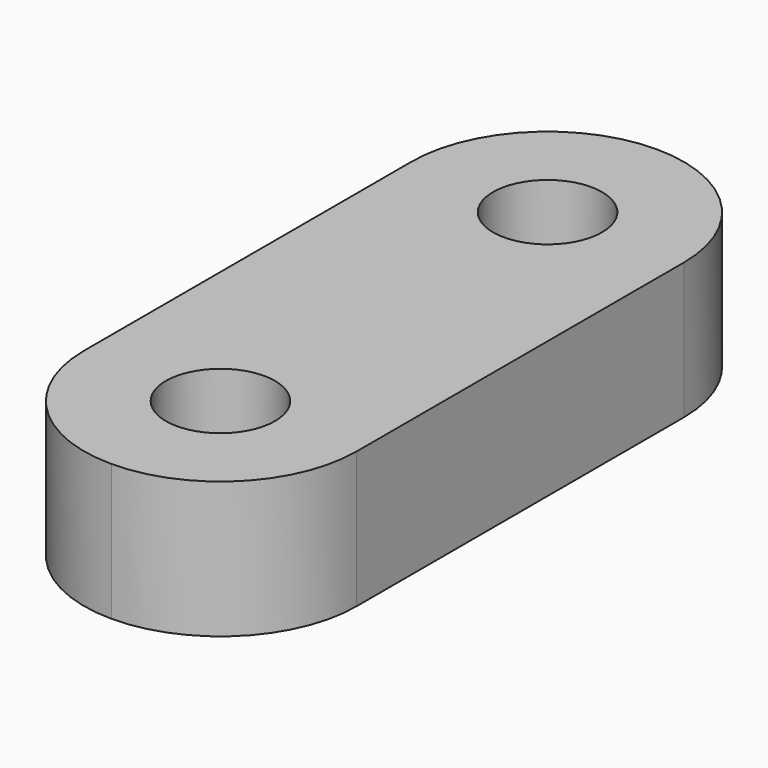
from build123d import *

# Parameters (mm, degrees)
F0_R     = 0.8
F1_DEPTH = 2


with BuildPart() as f1:
    # F0 (on Top) → F1 (new body)
    with BuildSketch(Plane.XY):
        with BuildLine():
            ThreePointArc((2, 3), (1.4142135624, 4.4142135624), (0, 5))
            ThreePointArc((0, 5), (-1.4142135624, 4.4142135624), (-2, 3))
            ThreePointArc((-2, 3), (0, 1), (2, 3))
        make_face()
        with Locations((0, 3)):
            Circle(F0_R, mode=Mode.SUBTRACT)
        with BuildLine():
            ThreePointArc((2, 3), (0, 1), (-2, 3))
            Line((-2, 3), (-2, -3))
            ThreePointArc((-2, -3), (0, -1), (2, -3))
            Line((2, -3), (2, 3))
        make_face()
        with BuildLine():
            ThreePointArc((2, -3), (0, -1), (-2, -3))
            ThreePointArc((-2, -3), (-1.4142135624, -4.4142135624), (0, -5))
            ThreePointArc((0, -5), (1.4142135624, -4.4142135624), (2, -3))
        make_face()
        with Locations((0, -3)):
            Circle(F0_R, mode=Mode.SUBTRACT)
    extrude(amount=F1_DEPTH)


solid = f1.part
